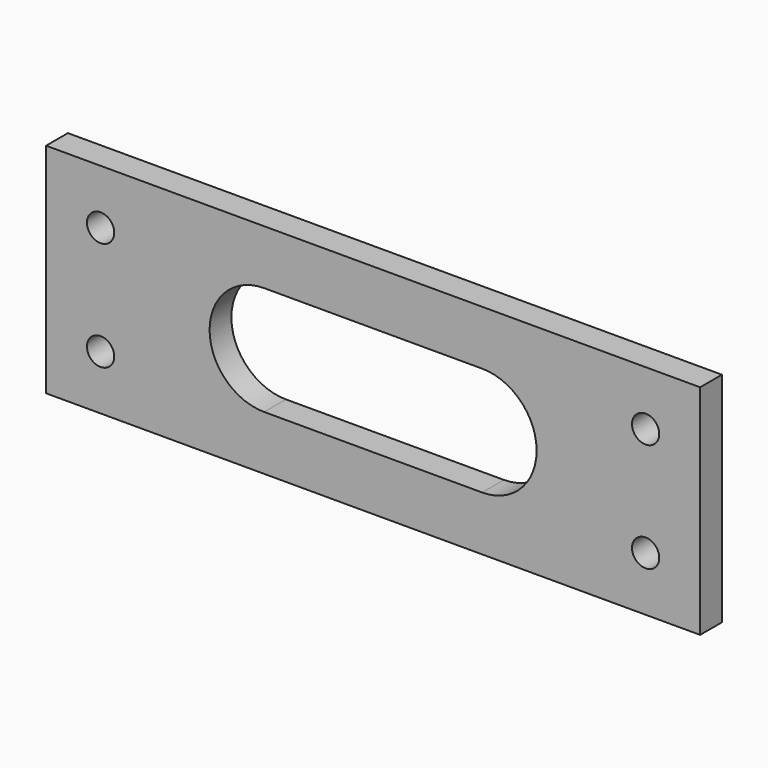
from build123d import *

# Parameters (mm, degrees)
F0_W     = 152.4
F0_H     = 50.8
F0_R     = 3.175
F1_DEPTH = 6.35


with BuildPart() as f1:
    # F0 (on Front) → F1 (new body)
    with BuildSketch(Plane.XZ):
        Rectangle(F0_W, F0_H)
        with Locations((-63.5, -12.7)):
            Circle(F0_R, mode=Mode.SUBTRACT)
        with Locations((63.5, -12.7)):
            Circle(F0_R, mode=Mode.SUBTRACT)
        with BuildLine():
            Line((25.4, -12.7), (-25.4, -12.7))
            ThreePointArc((-25.4, -12.7), (-38.1, 0), (-25.4, 12.7))
            Line((-25.4, 12.7), (25.4, 12.7))
            ThreePointArc((25.4, 12.7), (38.1, 0), (25.4, -12.7))
        make_face(mode=Mode.SUBTRACT)
        with Locations((-63.5, 12.7)):
            Circle(F0_R, mode=Mode.SUBTRACT)
        with Locations((63.5, 12.7)):
            Circle(F0_R, mode=Mode.SUBTRACT)
    extrude(amount=F1_DEPTH)


solid = f1.part
